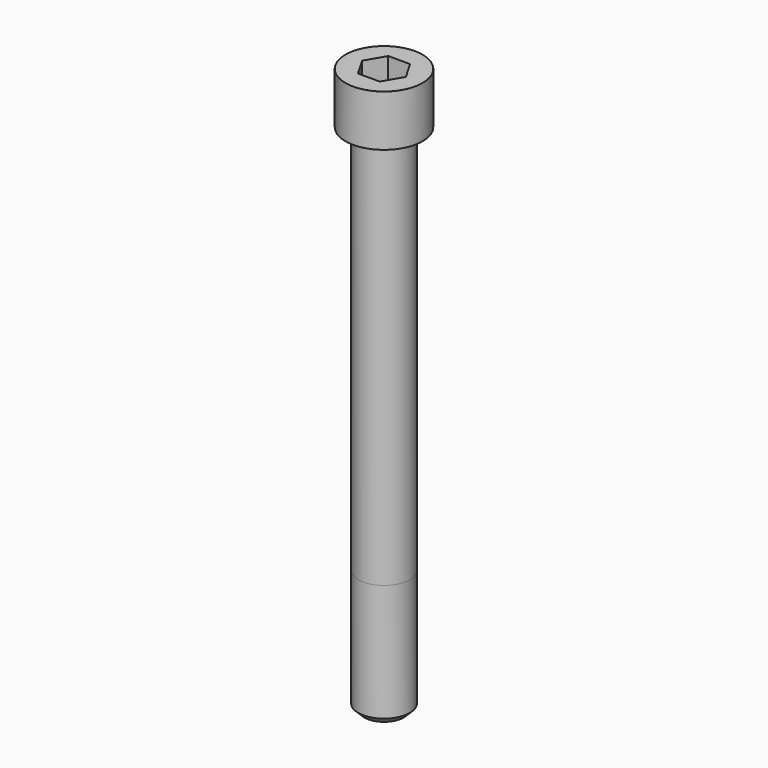
from build123d import *

# Parameters (mm, degrees)
POCKET_DEPTH = 22.15


with BuildPart() as part:
    # Sketch → Revolve (revolve)
    with BuildSketch(Plane.YZ):
        with BuildLine():
            Line((14.999, 0), (22.5, 0))
            Line((22.5, 0), (22.5, 29.97229))
            ThreePointArc((22.5, 29.97229), (22.491884, 29.991884), (22.47229, 30))
            Line((22.47229, 30), (0, 30))
            Line((0, -300), (0, 30))
            Line((11.5, -300), (0, -300))
            Line((15, -296.5), (11.5, -300))
            Line((15, -228), (15, -296.5))
            Line((14.999, 0), (15, -228))
        make_face()
    revolve(axis=Axis((0, 0, 0), (0, 0, 1)))

    # Sketch001 → Pocket (cut)
    with BuildSketch(Plane.XY.offset(30)):
        Polygon((12.788308, 0), (6.394154, 11.075), (-6.394154, 11.075), (-12.788308, 0), (-6.394154, -11.075), (6.394154, -11.075), align=None)
    extrude(amount=-POCKET_DEPTH, mode=Mode.SUBTRACT)


solid = part.part
